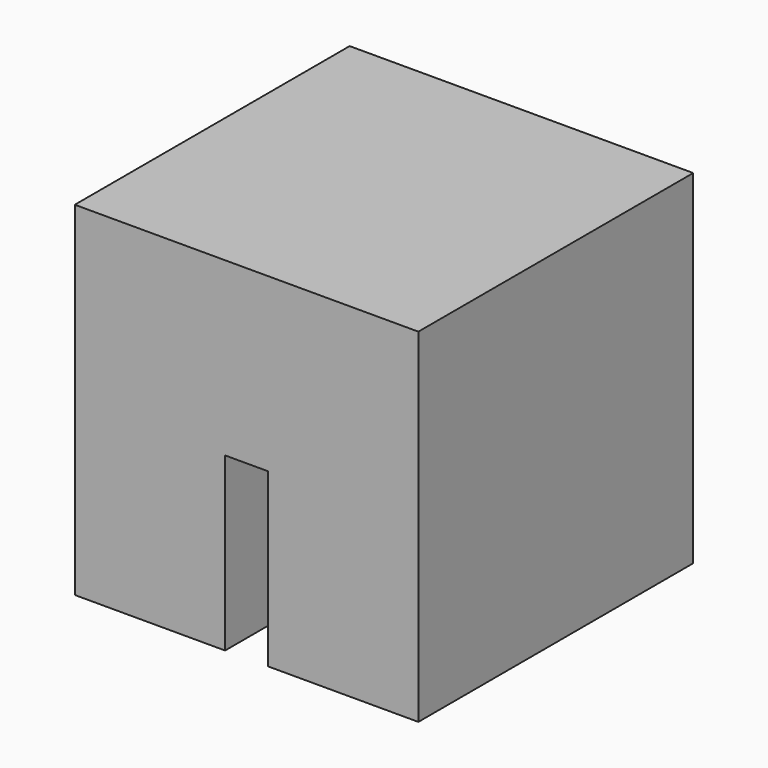
from build123d import *

# Parameters (mm, degrees)
F0_W     = 12.7
F0_H     = 12.7
F1_DEPTH = 12.7
F2_W     = 1.5875
F2_H     = 6.35
F3_DEPTH = 12.7


with BuildPart() as f1:
    # F0 (on Top) → F1 (new body)
    with BuildSketch(Plane.XY):
        Rectangle(F0_W, F0_H)
    extrude(amount=F1_DEPTH)

    # F2 (on face) → F3 (cut, through all)
    with BuildSketch(Plane.XZ.offset(6.35)):
        with Locations((0, 3.175)):
            Rectangle(F2_W, F2_H)
    extrude(amount=-F3_DEPTH, mode=Mode.SUBTRACT)


solid = f1.part
